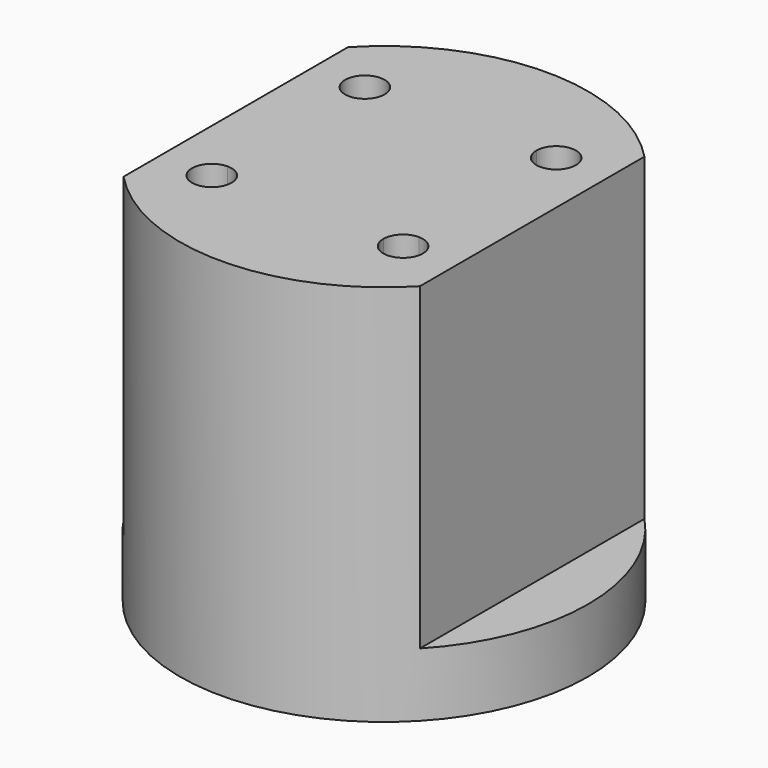
from build123d import *

# Parameters (mm, degrees)
F1_DEPTH = 30
F2_DEPTH = 5


with BuildPart() as f1:
    # F0 (on Top) → F1 (new body)
    with BuildSketch(Plane.XY):
        with BuildLine():
            Line((11.6189500386, -11), (11.6189500386, 11))
            ThreePointArc((11.6189500386, 11), (0, 16), (-11.6189500386, 11))
            Line((-11.6189500386, 11), (-11.6189500386, -11))
            ThreePointArc((-11.6189500386, -11), (0, -16), (11.6189500386, -11))
        make_face()
        with BuildLine():
            Line((5.95, -7.5), (-5.95, -7.5))
            ThreePointArc((-5.95, -7.5), (-8.5960155108, -8.5960155108), (-7.5, -5.95))
            Line((-7.5, -5.95), (-7.5, 5.95))
            ThreePointArc((-7.5, 5.95), (-8.5960155108, 8.5960155108), (-5.95, 7.5))
            Line((-5.95, 7.5), (5.95, 7.5))
            ThreePointArc((5.95, 7.5), (7.5, 9.05), (9.05, 7.5))
            ThreePointArc((9.05, 7.5), (8.5960155108, 6.4039844892), (7.5, 5.95))
            Line((7.5, 5.95), (7.5, -5.95))
            ThreePointArc((7.5, -5.95), (8.5960155108, -6.4039844892), (9.05, -7.5))
            ThreePointArc((9.05, -7.5), (7.5, -9.05), (5.95, -7.5))
        make_face(mode=Mode.SUBTRACT)
        with BuildLine():
            ThreePointArc((-7.5, -5.95), (-6.4039844892, -6.4039844892), (-5.95, -7.5))
            Line((-5.95, -7.5), (5.95, -7.5))
            ThreePointArc((5.95, -7.5), (6.4039844892, -6.4039844892), (7.5, -5.95))
            Line((7.5, -5.95), (7.5, 5.95))
            ThreePointArc((7.5, 5.95), (6.4039844892, 6.4039844892), (5.95, 7.5))
            Line((5.95, 7.5), (-5.95, 7.5))
            ThreePointArc((-5.95, 7.5), (-6.4039844892, 6.4039844892), (-7.5, 5.95))
            Line((-7.5, 5.95), (-7.5, -5.95))
        make_face()
    extrude(amount=F1_DEPTH)

    # F0 (on Top) → F2 (join)
    with BuildSketch(Plane.XY):
        with BuildLine():
            Line((-11.6189500386, -11), (-11.6189500386, 11))
            ThreePointArc((-11.6189500386, 11), (-16, 0), (-11.6189500386, -11))
        make_face()
        with BuildLine():
            ThreePointArc((11.6189500386, -11), (14.8644408004, -5.9201688904), (16, 0))
            ThreePointArc((16, 0), (14.8644408004, 5.9201688904), (11.6189500386, 11))
            Line((11.6189500386, 11), (11.6189500386, -11))
        make_face()
    extrude(amount=F2_DEPTH)


solid = f1.part
